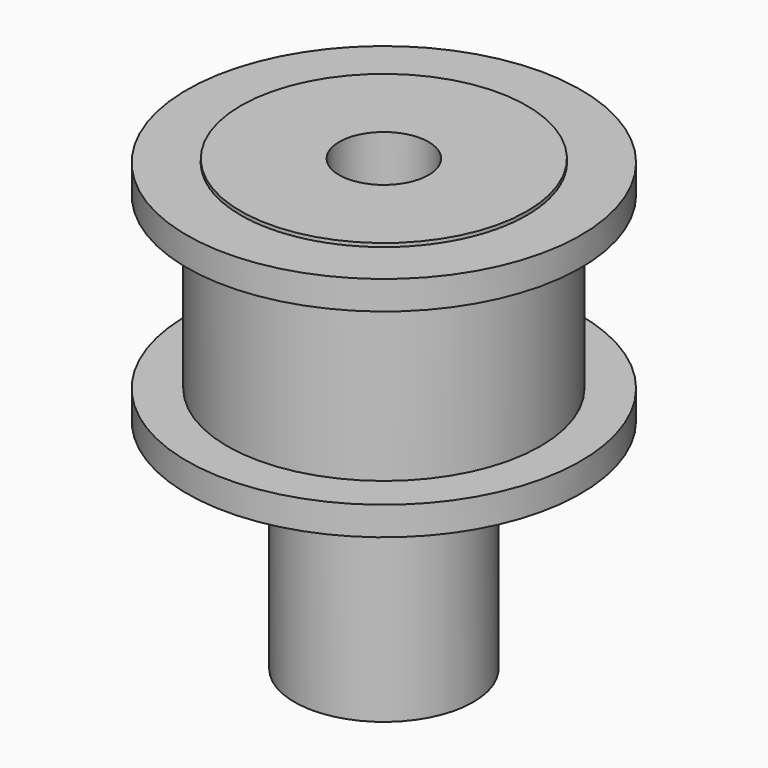
from build123d import *

# Parameters (mm, degrees)
F2_R     = 7.987
F2_R_2   = 2.5
F3_DEPTH = 5
F4_R     = 7.987
F4_R_2   = 2.5
F5_DEPTH = 5
F6_R     = 5
F6_R_2   = 2.5
F7_DEPTH = 12
F8_R     = 6
F8_R_2   = 2.5
F9_DEPTH = 1


with BuildPart() as f1:
    # F0 (on Right) → F1 (revolve)
    with BuildSketch(Plane.YZ):
        Polygon((11, 4.75), (11, 6.35), (7.987, 6.35), (7.987, 1.55), (6.945, 1.55), (6.945, 0), (6.945, -1.55), (7.987, -1.55), (7.987, -6.35), (11, -6.35), (11, -4.75), (8.75, -4.75), (8.75, 0), (8.75, 4.75), align=None)
    revolve(axis=Axis((0, 0, -0.299537), (0, 0, -1)))


with BuildPart() as f3:
    # F2 (on face) → F3 (new body)
    with BuildSketch(Plane(origin=(0, 0, -1.55), x_dir=(1, 0, 0), z_dir=(0, 0, -1))):
        Circle(F2_R)
        Circle(F2_R_2, mode=Mode.SUBTRACT)
    extrude(amount=F3_DEPTH)


with BuildPart() as f5:
    # F4 (on face) → F5 (new body)
    with BuildSketch(Plane.XY.offset(1.55)):
        Circle(F4_R)
        Circle(F4_R_2, mode=Mode.SUBTRACT)
    extrude(amount=F5_DEPTH)


with BuildPart() as f7:
    # F6 (on face) → F7 (new body)
    with BuildSketch(Plane(origin=(0, 0, -6.55), x_dir=(1, 0, 0), z_dir=(0, 0, -1))):
        Circle(F6_R)
        Circle(F6_R_2, mode=Mode.SUBTRACT)
    extrude(amount=F7_DEPTH)


with BuildPart() as f9:
    # F8 (on face) → F9 (new body)
    with BuildSketch(Plane(origin=(0, 0, -6.55), x_dir=(1, 0, 0), z_dir=(0, 0, -1))):
        Circle(F8_R)
        Circle(F8_R_2, mode=Mode.SUBTRACT)
    extrude(amount=F9_DEPTH)


solid = Compound([f1.part, f3.part, f5.part, f7.part, f9.part])
